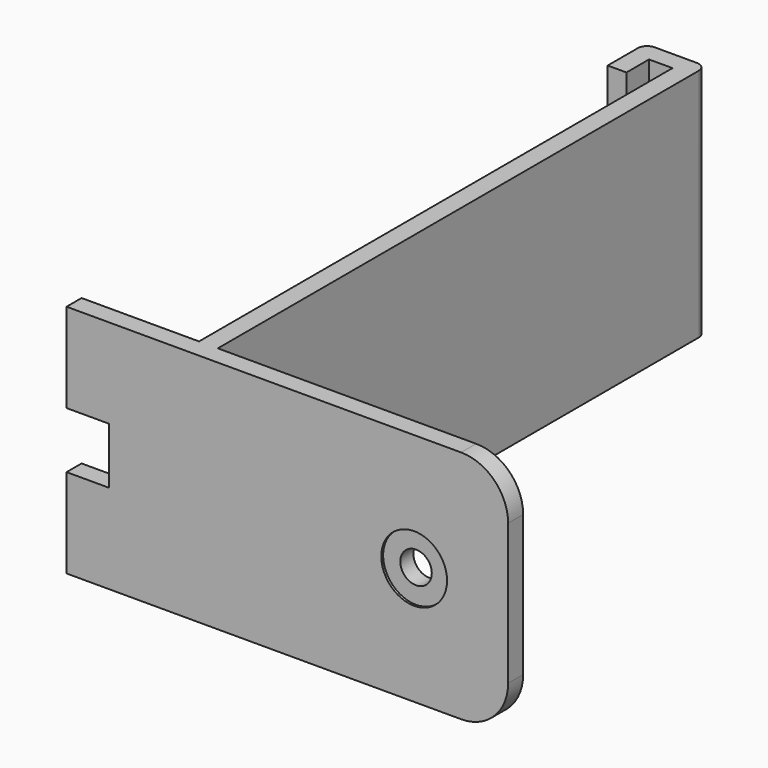
from build123d import *

# Parameters (mm, degrees)
PAD_DEPTH         = 50
SKETCH001_R       = 3.35
POCKET_DEPTH      = 130.001
POCKET_DEPTH_BACK = -4.001
SKETCH002_R       = 7
POCKET001_DEPTH   = 0.501
FILLET_R          = 10
FILLET001_R       = 2
SKETCH003_W       = 9
SKETCH003_H       = 12
POCKET002_DEPTH   = 29.001
SKETCH004_W       = 9
SKETCH004_H       = 12
POCKET003_DEPTH   = 4.001


with BuildPart() as part:
    # Sketch → Pad (new body)
    with BuildSketch(Plane.XY):
        Polygon((0, 130), (0, 0), (65, 0), (65, -4), (-29, -4), (-29, 0), (-4, 0), (-4, 126), (-9, 126), (-9, 120), (-13, 120), (-13, 130), align=None)
    extrude(amount=PAD_DEPTH)

    # Sketch001 → Pocket (cut, two sides)
    with BuildSketch(Plane.XZ) as pocket_sk:
        with Locations((45, 25)):
            Circle(SKETCH001_R)
    extrude(amount=-POCKET_DEPTH, mode=Mode.SUBTRACT)
    extrude(pocket_sk.sketch, amount=-POCKET_DEPTH_BACK, mode=Mode.SUBTRACT)

    # Sketch002 → Pocket001 (cut, through all)
    with BuildSketch(Plane.XZ.offset(3.5)):
        with Locations((45, 25)):
            Circle(SKETCH002_R)
    extrude(amount=POCKET001_DEPTH, mode=Mode.SUBTRACT)

    # Fillet
    fillet_edges = [part.edges().sort_by_distance(p)[0] for p in [
        (65, -2, 50),
        (65, -2, 0),
    ]]
    fillet(fillet_edges, radius=FILLET_R)

    # Fillet001
    fillet001_edges = [part.edges().sort_by_distance(p)[0] for p in [
        (-13, 130, 25),
        (0, 130, 25),
    ]]
    fillet(fillet001_edges, radius=FILLET001_R)

    # Sketch003 → Pocket002 (cut, through all)
    with BuildSketch(Plane.YZ):
        with Locations((4.5, 25)):
            Rectangle(SKETCH003_W, SKETCH003_H)
    extrude(amount=-POCKET002_DEPTH, mode=Mode.SUBTRACT)

    # Sketch004 → Pocket003 (cut, through all)
    with BuildSketch(Plane.XZ):
        with Locations((-24.5, 25)):
            Rectangle(SKETCH004_W, SKETCH004_H)
    extrude(amount=POCKET003_DEPTH, mode=Mode.SUBTRACT)


solid = part.part
